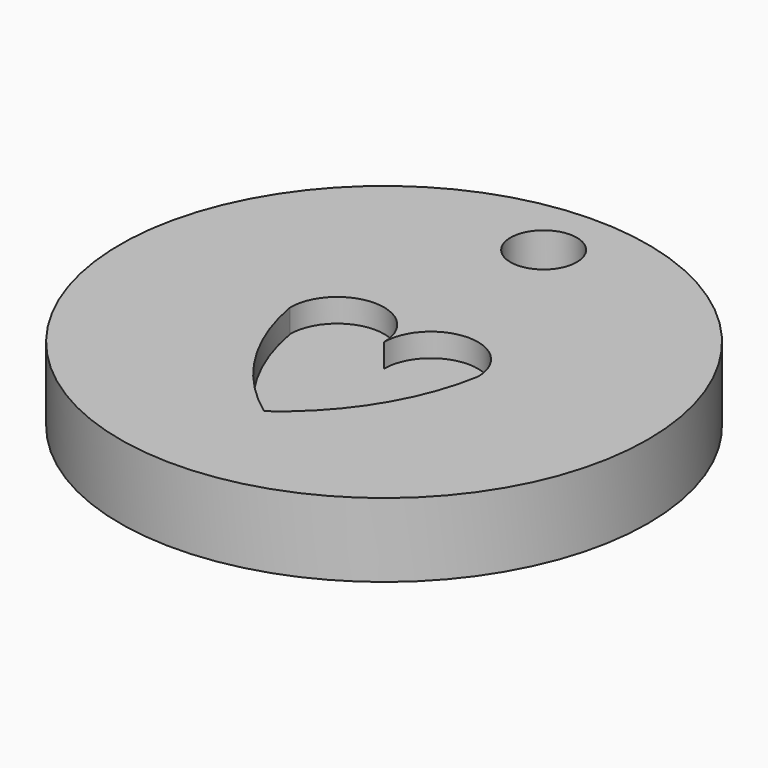
from build123d import *

# Parameters (mm, degrees)
F2_R     = 11.25
F0_DEPTH = 3.15
F3_R     = 1.414991
F4_DEPTH = 3.15
F5_DEPTH = 1


with BuildPart() as f0:
    # F2 (on Top) → F0 (new body)
    with BuildSketch(Plane.XY):
        Circle(F2_R)
    extrude(amount=F0_DEPTH)

    # F3 (on face) → F4 (cut, through all)
    with BuildSketch(Plane.XY.offset(3.15)):
        with Locations((0, 8.5)):
            Circle(F3_R)
    extrude(amount=-F4_DEPTH, mode=Mode.SUBTRACT)

    # F1 (on face) → F5 (cut)
    with BuildSketch(Plane.XY.offset(3.15)):
        with BuildLine():
            ThreePointArc((0, 0), (-2, 2), (-4, 0))
            ThreePointArc((-4, 0), (-2.62543, -3.587054), (0, -6.391252))
            ThreePointArc((0, -6.391252), (2.62543, -3.587054), (4, 0))
            ThreePointArc((4, 0), (2, 2), (0, 0))
        make_face()
    extrude(amount=-F5_DEPTH, mode=Mode.SUBTRACT)


solid = f0.part
